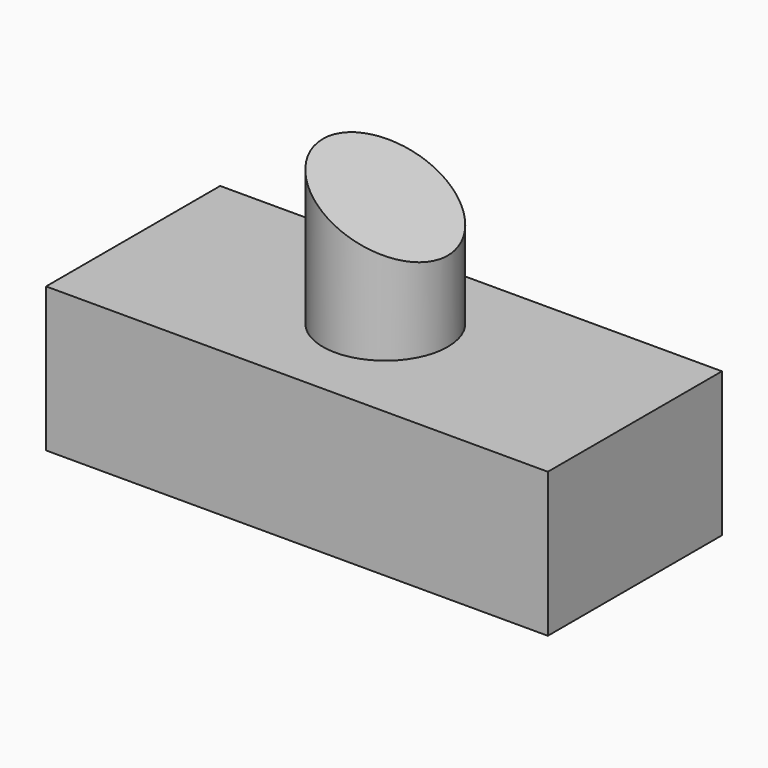
from build123d import *

# Parameters (mm, degrees)
F0_W     = 88.247977
F0_H     = 38.269773
F1_DEPTH = 25.4
F2_R     = 10.984207
F3_DEPTH = 25.4
F5_DEPTH = 25.4
F6_DEPTH = 25.4


with BuildPart() as f1:
    # F0 (on Top) → F1 (new body)
    with BuildSketch(Plane.XY):
        with Locations((0.800162, -1.280717)):
            Rectangle(F0_W, F0_H)
    extrude(amount=F1_DEPTH)

    # F2 (on face) → F3 (join)
    with BuildSketch(Plane.XY.offset(25.4)):
        Circle(F2_R)
    extrude(amount=F3_DEPTH)

    # F4 (on Front) → F5 (cut)
    with BuildSketch(Plane.XZ):
        Polygon((19.144135, 55.871744), (-14.150013, 55.871744), (-18.519871, 54.207034), (19.144135, 35.479076), align=None)
    extrude(amount=-F5_DEPTH, mode=Mode.SUBTRACT)

    # F4 (on Front) → F6 (cut)
    with BuildSketch(Plane.XZ):
        Polygon((19.144135, 55.871744), (-14.150013, 55.871744), (-18.519871, 54.207034), (19.144135, 35.479076), align=None)
    extrude(amount=F6_DEPTH, mode=Mode.SUBTRACT)


solid = f1.part
